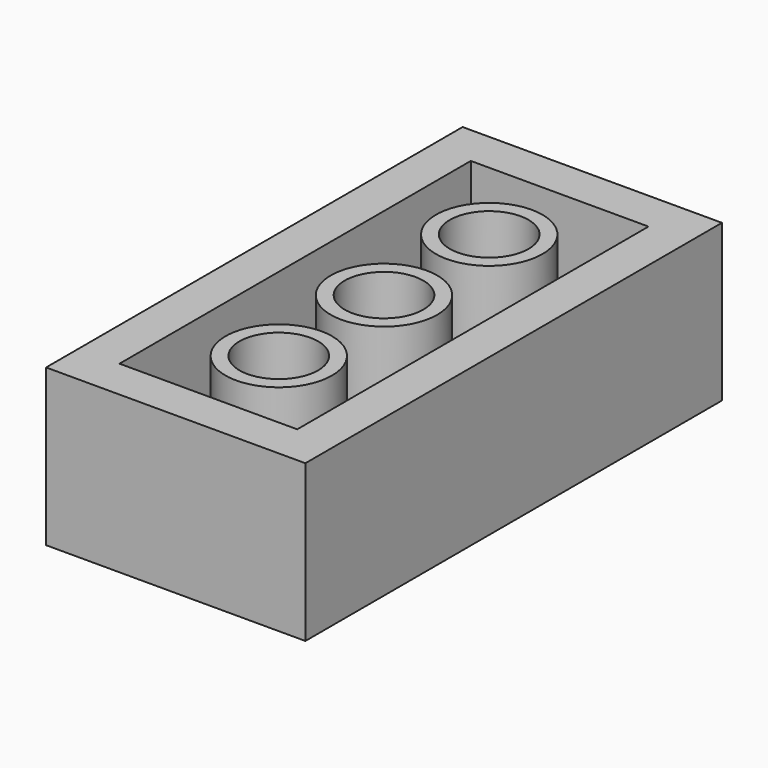
from build123d import *

# Parameters (mm, degrees)
F0_W     = 15.8877
F0_H     = 9.5504
F1_DEPTH = 7.9121
F4_T     = -2.4892
F5_R     = 3.2512
F5_R_2   = 2.4003
F6_DEPTH = 7.0612


with BuildPart() as f1:
    # F0 (on Right) → F1 (new body)
    with BuildSketch(Plane.YZ):
        with Locations((7.94385, 4.7752)):
            Rectangle(F0_W, F0_H)
    extrude(amount=F1_DEPTH)

    # F2: F1 across plane


with BuildPart() as f1_1:
    add(f1.part)
    add(f1.part.mirror(Plane.XZ))

    # F3: F1 across plane


with BuildPart() as f1_2:
    add(f1_1.part)
    add(f1_1.part.mirror(Plane.YZ))

    # F4
    f4_openings = [f1_2.faces().sort_by_distance(p)[0] for p in [
        (0, 0, 9.5504),
    ]]
    offset(amount=F4_T, openings=f4_openings)

    # F5 (on face) → F6 (join, through all)
    with BuildSketch(Plane.XY.offset(2.4892)):
        with Locations((0, -8.0264)):
            Circle(F5_R)
        with Locations((0, -8.0264)):
            Circle(F5_R_2, mode=Mode.SUBTRACT)
        Circle(F5_R)
        Circle(F5_R_2, mode=Mode.SUBTRACT)
        with Locations((0, 8.0264)):
            Circle(F5_R)
        with Locations((0, 8.0264)):
            Circle(F5_R_2, mode=Mode.SUBTRACT)
    extrude(amount=F6_DEPTH)


solid = f1_2.part
